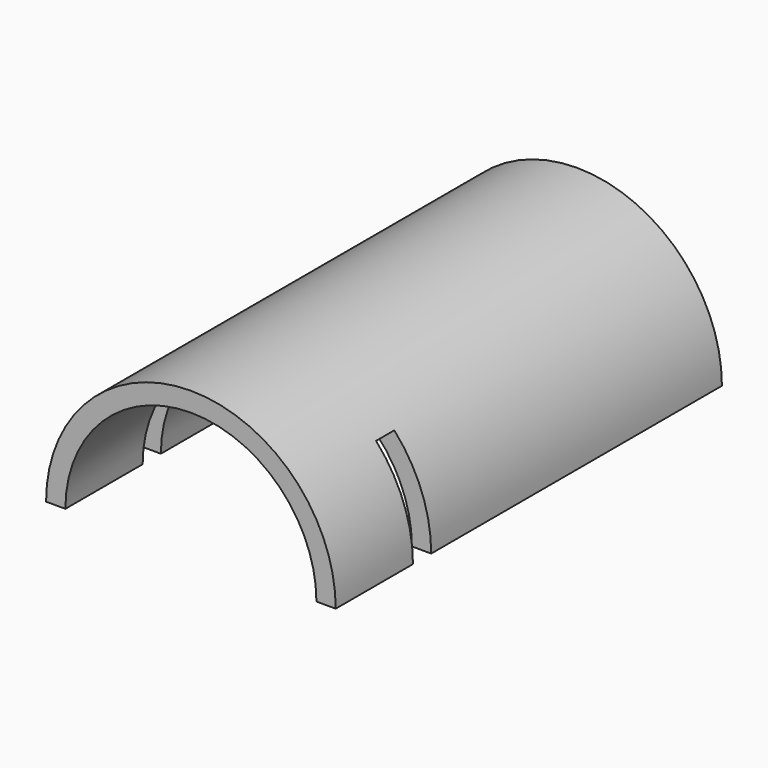
from build123d import *

# Parameters (mm, degrees)
F1_DEPTH = 127
F2_W     = 6
F2_H     = 25.4
F3_DEPTH = 101.6
F4_DEPTH = 101.6


with BuildPart() as f1:
    # F0 (on Front) → F1 (new body)
    with BuildSketch(Plane.XZ):
        with BuildLine():
            Line((33.02, 0), (38.1, 0))
            ThreePointArc((38.1, 0), (0, 38.1), (-38.1, 0))
            Line((-38.1, 0), (-33.02, 0))
            ThreePointArc((-33.02, 0), (0, 33.02), (33.02, 0))
        make_face()
    extrude(amount=F1_DEPTH)

    # F2 (on Right) → F3 (cut)
    with BuildSketch(Plane.YZ):
        with Locations((-98.6, 12.7)):
            Rectangle(F2_W, F2_H)
    extrude(amount=-F3_DEPTH, mode=Mode.SUBTRACT)

    # F2 (on Right) → F4 (cut)
    with BuildSketch(Plane.YZ):
        with Locations((-98.6, 12.7)):
            Rectangle(F2_W, F2_H)
    extrude(amount=F4_DEPTH, mode=Mode.SUBTRACT)


solid = f1.part
